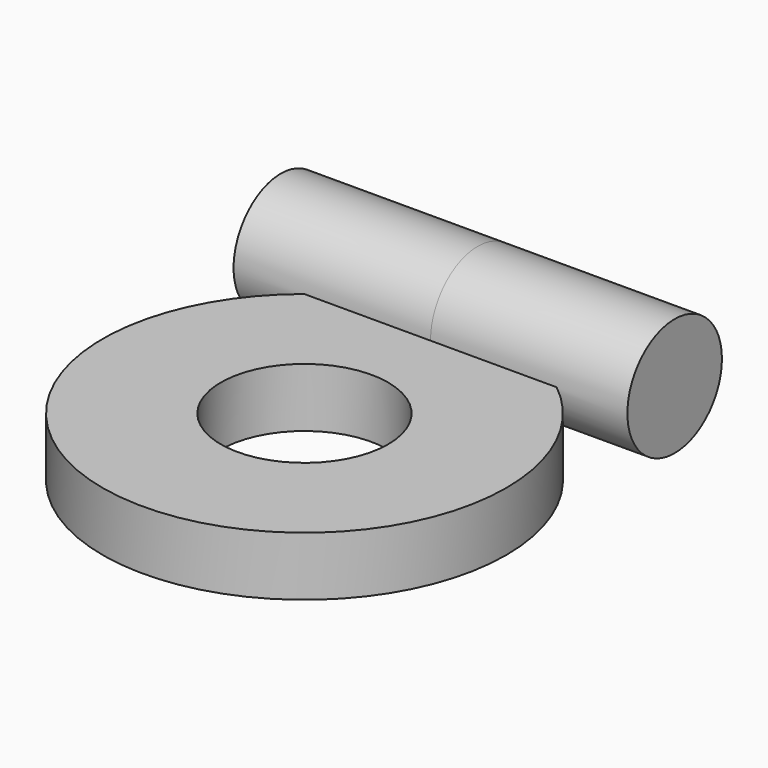
from build123d import *

# Parameters (mm, degrees)
F0_R          = 10.25
F0_R_2        = 4.25
F1_DEPTH      = 3
F2_R          = 3
F3_DEPTH      = 10
F3_DEPTH_BACK = 10
F4_R          = 1.35
F5_DEPTH      = 18


with BuildPart() as f1:
    # F0 (on Top) → F1 (new body)
    with BuildSketch(Plane.XY):
        Circle(F0_R)
        Circle(F0_R_2, mode=Mode.SUBTRACT)
    extrude(amount=F1_DEPTH)

    # F2 (on Right) → F3 (join, two sides)
    with BuildSketch(Plane.YZ) as f3_sk:
        with Locations((11, 3)):
            Circle(F2_R)
    extrude(amount=F3_DEPTH)
    extrude(f3_sk.sketch, amount=-F3_DEPTH_BACK)

    # F4 (on face) → F5 (cut)
    with BuildSketch(Plane(origin=(-10, 0, 0), x_dir=(0, -1, 0), z_dir=(-1, 0, 0))):
        with Locations((-11, 3)):
            Circle(F4_R)
    extrude(amount=-F5_DEPTH, mode=Mode.SUBTRACT)


solid = f1.part
